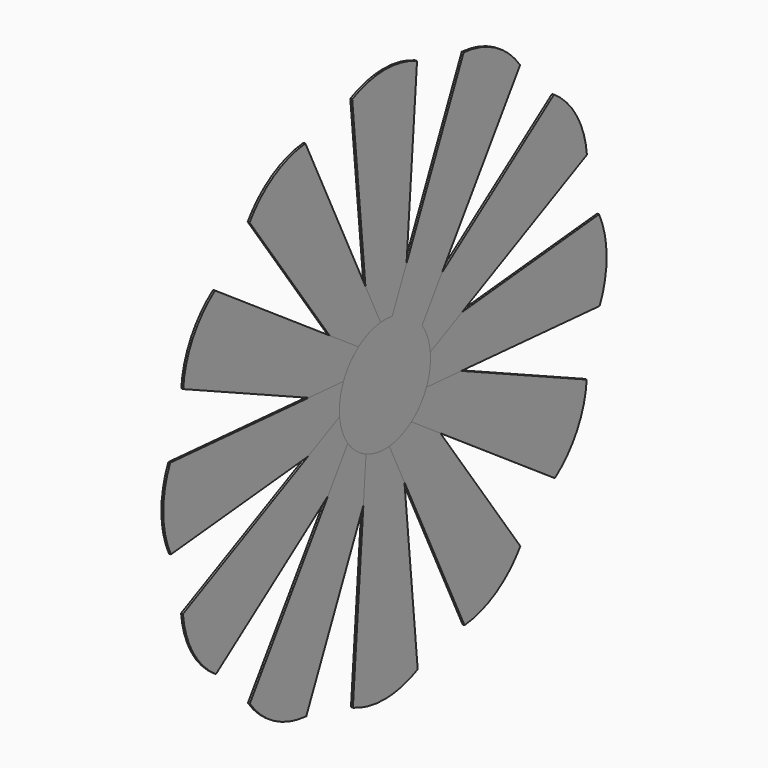
from build123d import *

# Parameters (mm, degrees)
F1_DEPTH = 1
F3_COUNT = 12


with BuildPart() as f1:
    # F0 (on Right) → F1 (new body)
    with BuildSketch(Plane.YZ):
        with BuildLine():
            ThreePointArc((-10.665829, 28.039973), (-17.029755, -24.697924), (30, 0))
            ThreePointArc((30, 0), (25.235461, 16.222562), (12.455233, 27.292255))
            ThreePointArc((12.455233, 27.292255), (0.969671, 29.984325), (-10.665829, 28.039973))
        make_face()
        with BuildLine():
            ThreePointArc((-10.665829, 28.039973), (0.969671, 29.984325), (12.455233, 27.292255))
            Line((12.455233, 27.292255), (21.116918, 141.309054))
            ThreePointArc((21.116918, 141.309054), (-0.267693, 145.868965), (-21.553363, 140.8675))
            Line((-21.553363, 140.8675), (-10.665829, 28.039973))
        make_face()
    extrude(amount=-F1_DEPTH)


with BuildPart() as f3_1:
    # F3: instance of F1
    add(f1.part.rotate(Axis((-1, 0, 0), (1, 0, 0)), 1 * 360 / F3_COUNT))


with BuildPart() as f3_2:
    # F3: instance of F1
    add(f1.part.rotate(Axis((-1, 0, 0), (1, 0, 0)), 2 * 360 / F3_COUNT))


with BuildPart() as f3_3:
    # F3: instance of F1
    add(f1.part.rotate(Axis((-1, 0, 0), (1, 0, 0)), 3 * 360 / F3_COUNT))


with BuildPart() as f3_4:
    # F3: instance of F1
    add(f1.part.rotate(Axis((-1, 0, 0), (1, 0, 0)), 4 * 360 / F3_COUNT))


with BuildPart() as f3_5:
    # F3: instance of F1
    add(f1.part.rotate(Axis((-1, 0, 0), (1, 0, 0)), 5 * 360 / F3_COUNT))


with BuildPart() as f3_6:
    # F3: instance of F1
    add(f1.part.rotate(Axis((-1, 0, 0), (1, 0, 0)), 6 * 360 / F3_COUNT))


with BuildPart() as f3_7:
    # F3: instance of F1
    add(f1.part.rotate(Axis((-1, 0, 0), (1, 0, 0)), 7 * 360 / F3_COUNT))


with BuildPart() as f3_8:
    # F3: instance of F1
    add(f1.part.rotate(Axis((-1, 0, 0), (1, 0, 0)), 8 * 360 / F3_COUNT))


with BuildPart() as f3_9:
    # F3: instance of F1
    add(f1.part.rotate(Axis((-1, 0, 0), (1, 0, 0)), 9 * 360 / F3_COUNT))


with BuildPart() as f3_10:
    # F3: instance of F1
    add(f1.part.rotate(Axis((-1, 0, 0), (1, 0, 0)), 10 * 360 / F3_COUNT))


with BuildPart() as f3_11:
    # F3: instance of F1
    add(f1.part.rotate(Axis((-1, 0, 0), (1, 0, 0)), 11 * 360 / F3_COUNT))


solid = Compound([f1.part, f3_1.part, f3_2.part, f3_3.part, f3_4.part, f3_5.part, f3_6.part, f3_7.part, f3_8.part, f3_9.part, f3_10.part, f3_11.part])
